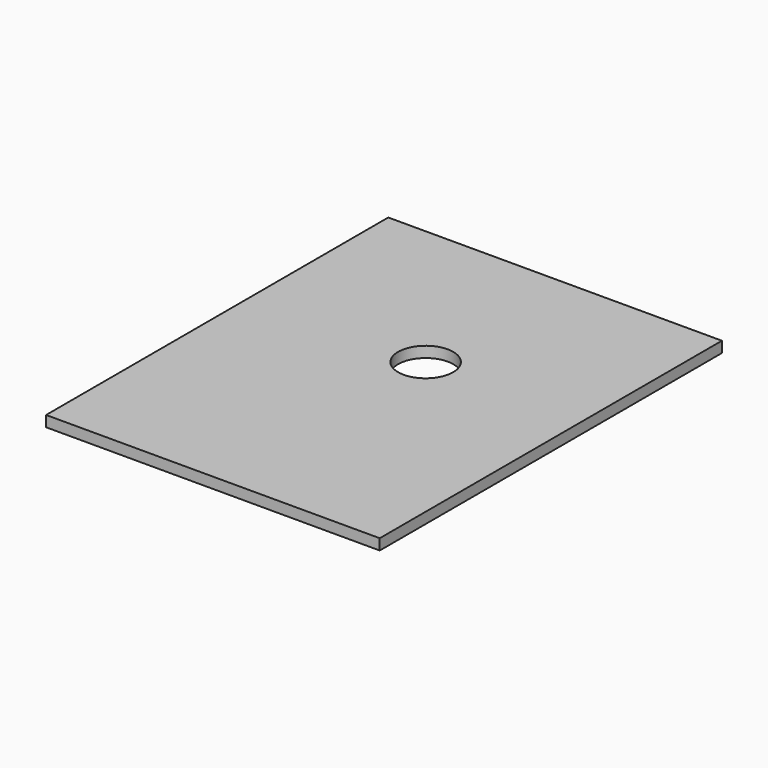
from build123d import *

# Parameters (mm, degrees)
SKETCH_W      = 184.531
SKETCH_H      = 236.5502
SKETCH_R      = 15.24
EXTRUDE_DEPTH = 5.9944


with BuildPart() as part:
    # Sketch → Extrude (new body)
    with BuildSketch(Plane.XY):
        with Locations((34.205396, 24.218852)):
            Rectangle(SKETCH_W, SKETCH_H)
        with Locations((39.018696, 47.015352)):
            Circle(SKETCH_R, mode=Mode.SUBTRACT)
    extrude(amount=EXTRUDE_DEPTH)


solid = part.part
